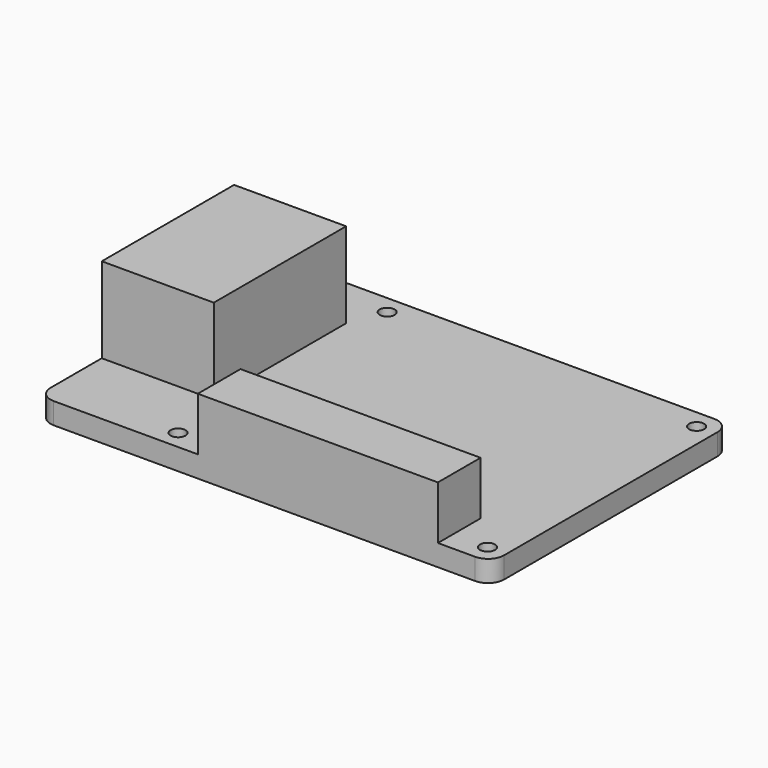
from build123d import *

# Parameters (mm, degrees)
F1_DEPTH = 20
F2_R     = 1.4
F3_DEPTH = 25
F4_W     = 21
F4_H     = 10
F4_H_2   = 15
F5_DEPTH = 16
F6_W     = 45
F6_H     = 10
F7_DEPTH = 10


with BuildPart() as f1:
    # F0 (on Top) → F1 (new body)
    with BuildSketch(Plane.XY):
        with BuildLine():
            Line((-39.5, -28), (39.5, -28))
            ThreePointArc((39.5, -28), (41.62132, -27.12132), (42.5, -25))
            Line((42.5, -25), (42.5, 25))
            ThreePointArc((42.5, 25), (41.62132, 27.12132), (39.5, 28))
            Line((39.5, 28), (-39.5, 28))
            ThreePointArc((-39.5, 28), (-41.62132, 27.12132), (-42.5, 25))
            Line((-42.5, 25), (-42.5, -25))
            ThreePointArc((-42.5, -25), (-41.62132, -27.12132), (-39.5, -28))
        make_face()
    extrude(amount=F1_DEPTH)

    # F2 (on face) → F3 (cut)
    with BuildSketch(Plane.XY.offset(20)):
        with Locations((-19, 24.5)):
            Circle(F2_R)
        with Locations((39, 24.5)):
            Circle(F2_R)
        with Locations((-19, -24.5)):
            Circle(F2_R)
        with Locations((39, -24.5)):
            Circle(F2_R)
    extrude(amount=-F3_DEPTH, mode=Mode.SUBTRACT)

    # F4 (on face) → F5 (cut)
    with BuildSketch(Plane.XY.offset(20)):
        Polygon((42.5, -28), (42.5, 28), (-21.5, 28), (-21.5, 18), (-21.5, -13), (-21.5, -28), align=None)
        with Locations((-32, 23)):
            Rectangle(F4_W, F4_H)
        with Locations((-32, -20.5)):
            Rectangle(F4_W, F4_H_2)
    extrude(amount=-F5_DEPTH, mode=Mode.SUBTRACT)

    # F6 (on face) → F7 (join)
    with BuildSketch(Plane.XY.offset(4)):
        with Locations((10, -23)):
            Rectangle(F6_W, F6_H)
    extrude(amount=F7_DEPTH)


solid = f1.part
